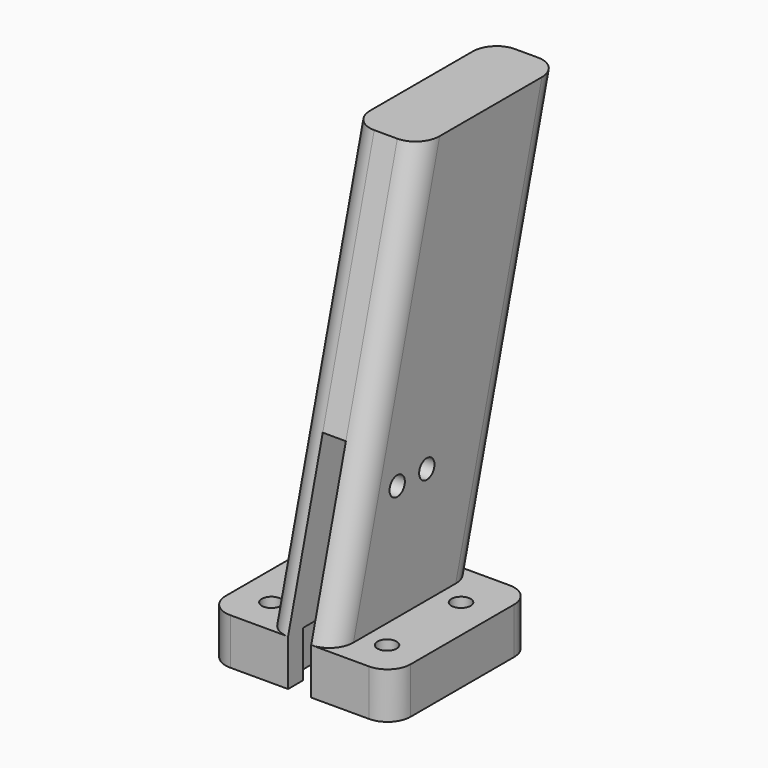
from build123d import *

# Parameters (mm, degrees)
F0_W      = 40
F0_H      = 38
F0_R      = 2.074
F0_W_2    = 10
F0_H_2    = 30
F1_DEPTH  = 10
F2_R      = 5
F3_R      = 2
F5_DEPTH  = 7.5
F6_R      = 5
F8_W      = 5
F8_H      = 45
F9_DEPTH  = 50
F7_R      = 2.074
F10_DEPTH = 25


with BuildPart() as f1:
    # F0 (on Top) → F1 (new body)
    with BuildSketch(Plane.XY):
        Rectangle(F0_W, F0_H)
        with Locations((-12.5, -11)):
            Circle(F0_R, mode=Mode.SUBTRACT)
        with Locations((12.5, -11)):
            Circle(F0_R, mode=Mode.SUBTRACT)
        with Locations((-12.5, 9)):
            Circle(F0_R, mode=Mode.SUBTRACT)
        Rectangle(F0_W_2, F0_H_2, mode=Mode.SUBTRACT)
        with Locations((12.5, 9)):
            Circle(F0_R, mode=Mode.SUBTRACT)
    extrude(amount=F1_DEPTH)

    # F2
    f2_edges = [f1.edges().sort_by_distance(p)[0] for p in [
        (-20, 19, 5),
        (20, 19, 5),
        (20, -19, 5),
        (-20, -19, 5),
    ]]
    fillet(f2_edges, radius=F2_R)

    # F3
    f3_edges = [f1.edges().sort_by_distance(p)[0] for p in [
        (-5, 15, 5),
        (5, 15, 5),
        (-5, -15, 5),
        (5, -15, 5),
    ]]
    fillet(f3_edges, radius=F3_R)

    # F4 (on Right) → F5 (join, symmetric)
    with BuildSketch(Plane.YZ):
        Polygon((42.293714, 96.933324), (4.293714, 96.933324), (-19, 10), (19, 10), align=None)
    extrude(amount=F5_DEPTH, both=True)

    # F6
    f6_edges = [f1.edges().sort_by_distance(p)[0] for p in [
        (-7.5, -7.353143, 53.466662),
        (7.5, -7.353143, 53.466662),
        (-7.5, 30.646857, 53.466662),
        (7.5, 30.646857, 53.466662),
    ]]
    fillet(f6_edges, radius=F6_R)

    # F8 (on Front) → F9 (cut, symmetric)
    with BuildSketch(Plane.XZ):
        with Locations((0, 22.5)):
            Rectangle(F8_W, F8_H)
    extrude(amount=F9_DEPTH, both=True, mode=Mode.SUBTRACT)

    # F7 (on Right) → F10 (cut, symmetric)
    with BuildSketch(Plane.YZ):
        with Locations((-2, 35)):
            Circle(F7_R)
        with Locations((6, 35)):
            Circle(F7_R)
    extrude(amount=F10_DEPTH, both=True, mode=Mode.SUBTRACT)


solid = f1.part
